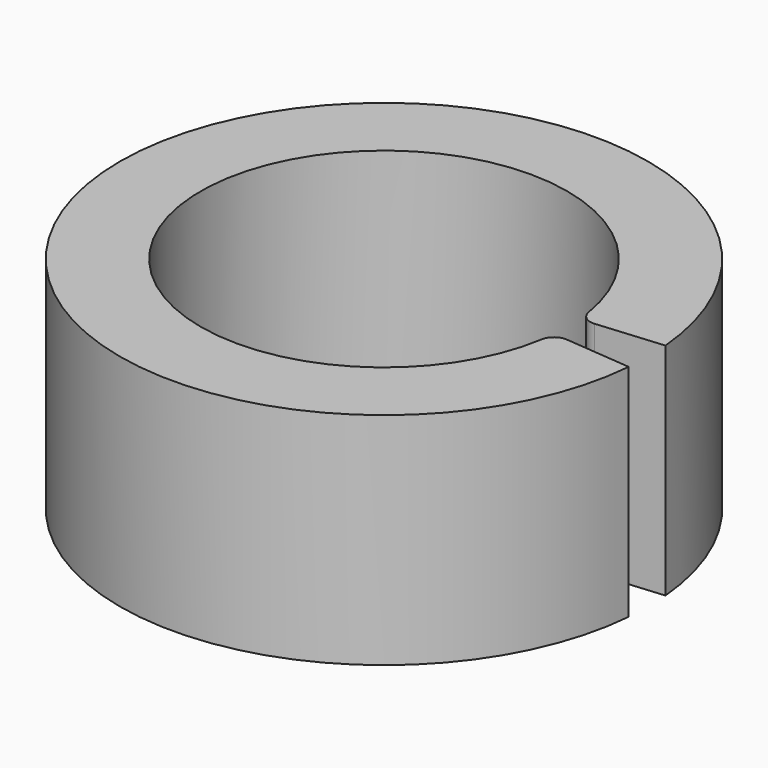
from build123d import *

# Parameters (mm, degrees)
PAD_DEPTH = 15
FILLET_R  = 1


with BuildPart() as part:
    # Sketch → Pad (new body)
    with BuildSketch(Plane.XY):
        with BuildLine():
            ThreePointArc((12.452434, 1.089447), (-12.5, 0), (12.452434, -1.089447))
            Line((12.452434, -1.089447), (17.931505, -1.568803))
            ThreePointArc((17.931505, 1.568803), (-18, 0), (17.931505, -1.568803))
            Line((12.452434, 1.089447), (17.931505, 1.568803))
        make_face()
    extrude(amount=PAD_DEPTH)

    # Fillet
    fillet_edges = [part.edges().sort_by_distance(p)[0] for p in [
        (12.452434, 1.089447, 7.5),
        (12.452434, -1.089447, 7.5),
    ]]
    fillet(fillet_edges, radius=FILLET_R)


solid = part.part
